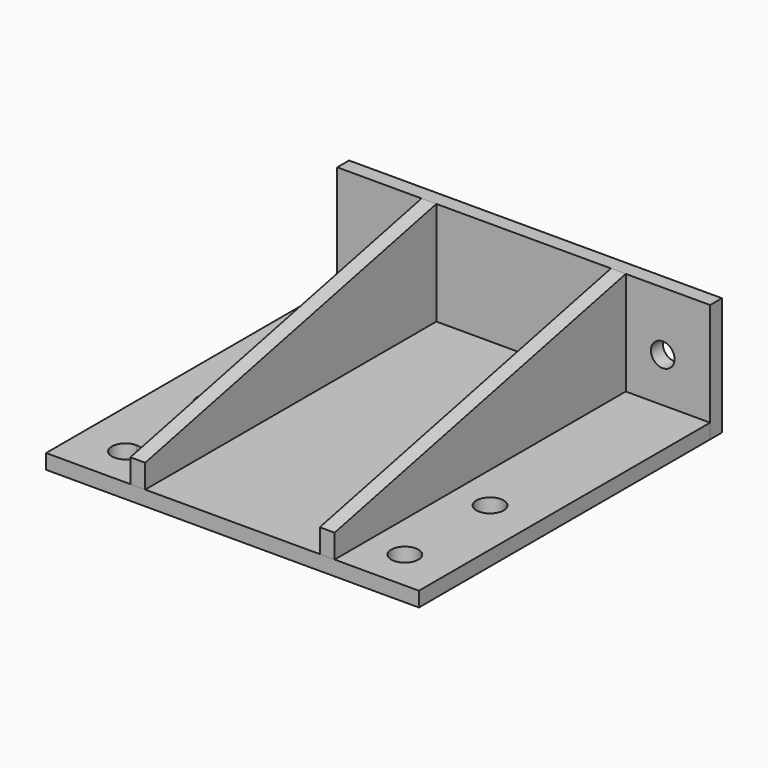
from build123d import *

# Parameters (mm, degrees)
F0_W      = 315
F0_H      = 307.5
F1_DEPTH  = 12.5
F2_W      = 315
F2_H      = 100
F3_DEPTH  = 12.5
F9_DEPTH  = 6.25
F10_R     = 10
F11_DEPTH = 12.5
F12_R     = 11.5
F13_DEPTH = 12.5


with BuildPart() as f1:
    # F0 (on Top) → F1 (new body)
    with BuildSketch(Plane.XY):
        Rectangle(F0_W, F0_H)
    extrude(amount=F1_DEPTH)

    # F12 (on face) → F13 (cut, through all)
    with BuildSketch(Plane.XY.offset(12.5)):
        with BuildLine():
            ThreePointArc((-118, -130.75), (-109.868272, -127.381728), (-106.5, -119.25))
            ThreePointArc((-106.5, -119.25), (-109.868272, -111.118272), (-118, -107.75))
            Line((-118, -107.75), (-118, -130.75))
        make_face()
        with BuildLine():
            ThreePointArc((-106.5, -29.25), (-126.131728, -21.118272), (-118, -40.75))
            ThreePointArc((-118, -40.75), (-109.868272, -37.381728), (-106.5, -29.25))
        make_face()
        with BuildLine():
            Line((-118, -130.75), (-118, -107.75))
            ThreePointArc((-118, -107.75), (-129.5, -119.25), (-118, -130.75))
        make_face()
        with Locations((118, -29.25)):
            Circle(F12_R)
        with Locations((118, -119.25)):
            Circle(F12_R)
    extrude(amount=-F13_DEPTH, mode=Mode.SUBTRACT)


with BuildPart() as f3:
    # F2 (on face) → F3 (new body)
    with BuildSketch(Plane(origin=(0, 153.75, 0), x_dir=(-1, 0, 0), z_dir=(0, 1, 0))):
        with Locations((0, 50)):
            Rectangle(F2_W, F2_H)
    extrude(amount=F3_DEPTH)

    # F10 (on face) → F11 (cut, through all)
    with BuildSketch(Plane.XZ.offset(-153.75)):
        with Locations((117.5, 50)):
            Circle(F10_R)
        with Locations((-117.5, 50)):
            Circle(F10_R)
    extrude(amount=-F11_DEPTH, mode=Mode.SUBTRACT)


with BuildPart() as f9:
    # F7 (on offset) + F8 (on offset) → F9 (new body, symmetric)
    with BuildSketch(Plane.YZ.offset(-80)):
        Polygon((-153.75, 32.5), (-153.75, 12.5), (153.75, 12.5), (153.75, 100), align=None)
    with BuildSketch(Plane.YZ.offset(80)):
        Polygon((-153.75, 32.5), (-153.75, 12.5), (153.75, 12.5), (153.75, 100), align=None)
    extrude(amount=F9_DEPTH, both=True)


solid = Compound([f1.part, f3.part, f9.part])
